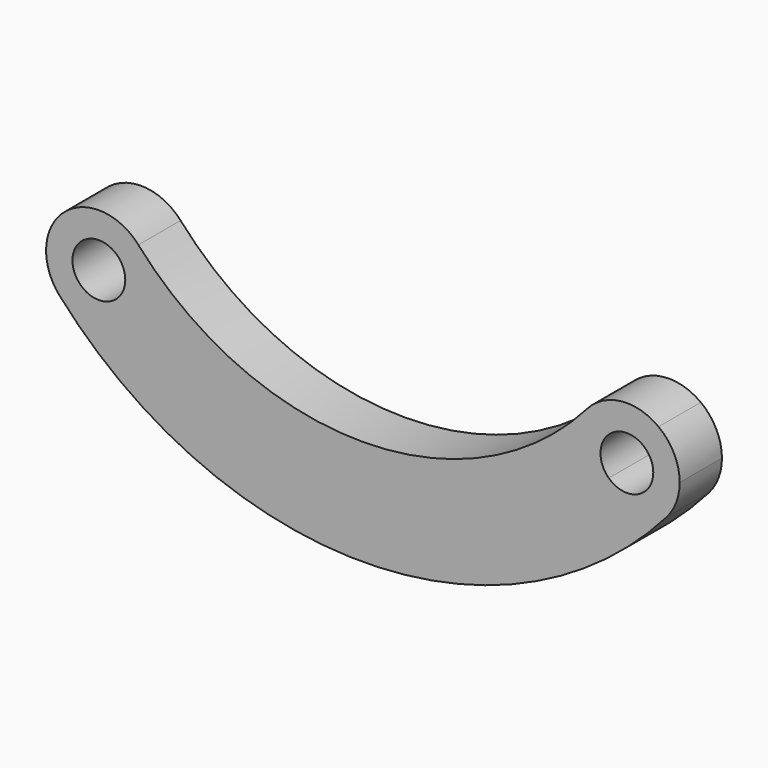
from build123d import *

# Parameters (mm, degrees)
F1_DEPTH = 19.05


with BuildPart() as f1:
    # F0 (on Front) → F1 (new body)
    with BuildSketch(Plane.XZ):
        with BuildLine():
            ThreePointArc((-80.700702, -71.697972), (-93.105766, -65.38926), (-106.490852, -69.200422))
            ThreePointArc((-106.490852, -69.200422), (-103.817064, -73.150647), (-100.99682, -76.997678))
            ThreePointArc((-100.99682, -76.997678), (-90.876692, -75.736678), (-85.417002, -84.350556))
            ThreePointArc((-85.417002, -84.350556), (-86.181735, -88.089986), (-88.353136, -91.228961))
            ThreePointArc((-88.353136, -91.228961), (-84.864906, -94.482526), (-81.256957, -97.602802))
            ThreePointArc((-81.256957, -97.602802), (-77.284106, -91.499066), (-75.892002, -84.350556))
            ThreePointArc((-75.892002, -84.350556), (-77.13471, -77.582774), (-80.700702, -71.697972))
        make_face()
        with BuildLine():
            ThreePointArc((-100.99682, -76.997678), (-103.817064, -73.150647), (-106.490852, -69.200422))
            ThreePointArc((-106.490852, -69.200422), (-113.903298, -82.51432), (-109.183302, -97.003139))
            ThreePointArc((-109.183302, -97.003139), (-95.350969, -103.396165), (-81.256957, -97.602802))
            ThreePointArc((-81.256957, -97.602802), (-84.864906, -94.482526), (-88.353136, -91.228961))
            ThreePointArc((-88.353136, -91.228961), (-102.062652, -90.676847), (-100.99682, -76.997678))
        make_face()
        with BuildLine():
            ThreePointArc((81.224298, -71.104261), (0.395805, -107.949274), (-80.700702, -71.697972))
            ThreePointArc((-80.700702, -71.697972), (-77.13471, -77.582774), (-75.892002, -84.350556))
            ThreePointArc((-75.892002, -84.350556), (-77.284106, -91.499066), (-81.256957, -97.602802))
            ThreePointArc((-81.256957, -97.602802), (0.465653, -126.999146), (81.9705, -97.004315))
            ThreePointArc((81.9705, -97.004315), (76.515899, -84.20069), (81.224298, -71.104261))
        make_face()
        with BuildLine():
            ThreePointArc((-81.256957, -97.602802), (-95.350969, -103.396165), (-109.183302, -97.003139))
            ThreePointArc((-109.183302, -97.003139), (0.535501, -146.049018), (109.891698, -96.199882))
            ThreePointArc((109.891698, -96.199882), (96.106617, -102.69417), (81.9705, -97.004315))
            ThreePointArc((81.9705, -97.004315), (0.465653, -126.999146), (-81.256957, -97.602802))
        make_face()
        with BuildLine():
            ThreePointArc((106.995441, -68.417656), (93.582767, -64.704751), (81.224298, -71.104261))
            ThreePointArc((81.224298, -71.104261), (76.515899, -84.20069), (81.9705, -97.004315))
            ThreePointArc((81.9705, -97.004315), (85.555472, -93.857665), (89.019749, -90.578609))
            ThreePointArc((89.019749, -90.578609), (88.391148, -77.378166), (101.558733, -76.254991))
            ThreePointArc((101.558733, -76.254991), (104.350692, -72.387383), (106.995441, -68.417656))
        make_face()
        with BuildLine():
            ThreePointArc((81.9705, -97.004315), (96.106617, -102.69417), (109.891698, -96.199882))
            ThreePointArc((109.891698, -96.199882), (113.389984, -90.354516), (114.607998, -83.652071))
            ThreePointArc((114.607998, -83.652071), (112.598916, -75.136814), (106.995441, -68.417656))
            ThreePointArc((106.995441, -68.417656), (104.350692, -72.387383), (101.558733, -76.254991))
            ThreePointArc((101.558733, -76.254991), (104.156912, -79.555206), (105.082998, -83.652071))
            ThreePointArc((105.082998, -83.652071), (99.329523, -92.398569), (89.019749, -90.578609))
            ThreePointArc((89.019749, -90.578609), (85.555472, -93.857665), (81.9705, -97.004315))
        make_face()
    extrude(amount=F1_DEPTH)


solid = f1.part
